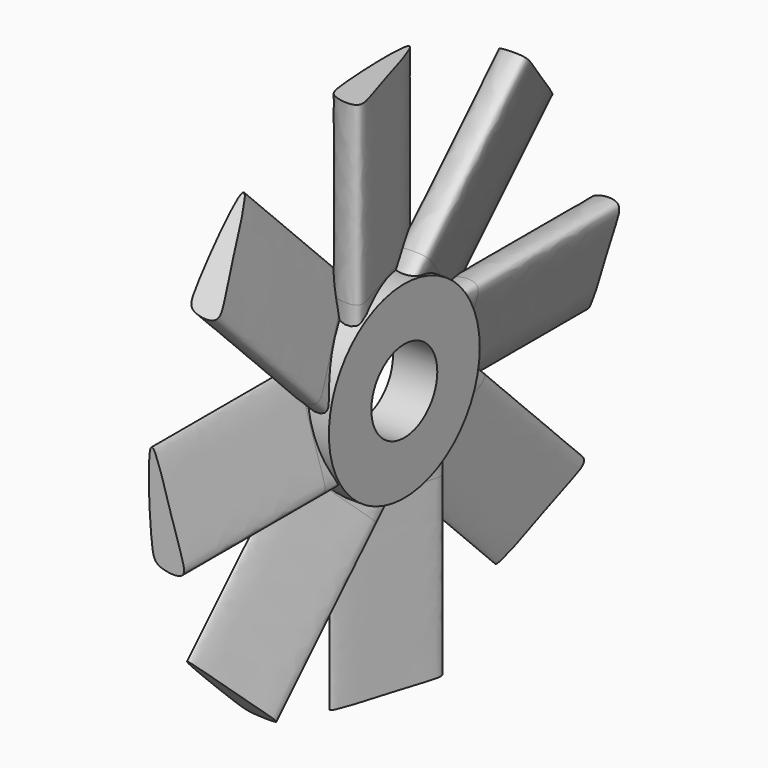
from build123d import *

# Parameters (mm, degrees)
F0_R      = 42.5449501658
F1_DEPTH  = 20
F4_DEPTH  = 79.502
F5_DEPTH  = 13.462
F7_COUNT  = 8
F8_R      = 25.0012100529
F9_DEPTH  = 19.812
F10_R     = 18.5977453916
F11_DEPTH = 76.2


with BuildPart() as f1:
    # F0 (on Right) → F1 (new body)
    with BuildSketch(Plane.YZ):
        Circle(F0_R)
    extrude(amount=F1_DEPTH)

    # F8 (on face) → F9 (join)
    with BuildSketch(Plane(origin=(0, 0, 0), x_dir=(0, -1, 0), z_dir=(-1, 0, 0))):
        Circle(F8_R)
    extrude(amount=-F9_DEPTH)

    # F10 (on face) → F11 (cut)
    with BuildSketch(Plane.YZ.offset(20)):
        Circle(F10_R)
    extrude(amount=-F11_DEPTH, mode=Mode.SUBTRACT)


with BuildPart() as f4:
    # F3 (on offset) → F4 (new body)
    with BuildSketch(Plane.XZ.offset(43.18)):
        with BuildLine():
            add(Edge.make_bspline(
                [(4.1226367466, 22.3667770624), (6.2363300605, 23.5312039513), (14.8033160811, -10.8311319862), (21.872628336, -26.2600950479), (6.039185649, -24.6004949411), (3.632337952, -17.1526476799), (1.8922356128, 21.1380562086), (4.1226367466, 22.3667770624)],
                knots=[0, 0, 0, 0, 0.2651017538, 0.4400974866, 0.5811439508, 0.7202606223, 1, 1, 1, 1], degree=3))
        make_face()
    extrude(amount=F4_DEPTH)


with BuildPart() as f5:
    # F5 (new): a face of the model
    f5_faces = [f4.part.faces().sort_by_distance(p)[0] for p in [
        (9.0997977205, -43.18, -6.1059848245),
    ]]
    extrude(f5_faces, amount=F5_DEPTH)


with BuildPart() as f7_1:
    # F7: instance of F5
    add(f5.part.rotate(Axis((-1.562891528, 0, 0), (1, 0, 0)), 1 * 360 / F7_COUNT))


with BuildPart() as f7_2:
    # F7: instance of F5
    add(f5.part.rotate(Axis((-1.562891528, 0, 0), (1, 0, 0)), 2 * 360 / F7_COUNT))


with BuildPart() as f7_3:
    # F7: instance of F5
    add(f5.part.rotate(Axis((-1.562891528, 0, 0), (1, 0, 0)), 3 * 360 / F7_COUNT))


with BuildPart() as f7_4:
    # F7: instance of F5
    add(f5.part.rotate(Axis((-1.562891528, 0, 0), (1, 0, 0)), 4 * 360 / F7_COUNT))


with BuildPart() as f7_5:
    # F7: instance of F5
    add(f5.part.rotate(Axis((-1.562891528, 0, 0), (1, 0, 0)), 5 * 360 / F7_COUNT))


with BuildPart() as f7_6:
    # F7: instance of F5
    add(f5.part.rotate(Axis((-1.562891528, 0, 0), (1, 0, 0)), 6 * 360 / F7_COUNT))


with BuildPart() as f7_7:
    # F7: instance of F5
    add(f5.part.rotate(Axis((-1.562891528, 0, 0), (1, 0, 0)), 7 * 360 / F7_COUNT))


with BuildPart() as f7_8:
    # F7: instance of F4
    add(f4.part.rotate(Axis((-1.562891528, 0, 0), (1, 0, 0)), 1 * 360 / F7_COUNT))


with BuildPart() as f7_9:
    # F7: instance of F4
    add(f4.part.rotate(Axis((-1.562891528, 0, 0), (1, 0, 0)), 2 * 360 / F7_COUNT))


with BuildPart() as f7_10:
    # F7: instance of F4
    add(f4.part.rotate(Axis((-1.562891528, 0, 0), (1, 0, 0)), 3 * 360 / F7_COUNT))


with BuildPart() as f7_11:
    # F7: instance of F4
    add(f4.part.rotate(Axis((-1.562891528, 0, 0), (1, 0, 0)), 4 * 360 / F7_COUNT))


with BuildPart() as f7_12:
    # F7: instance of F4
    add(f4.part.rotate(Axis((-1.562891528, 0, 0), (1, 0, 0)), 5 * 360 / F7_COUNT))


with BuildPart() as f7_13:
    # F7: instance of F4
    add(f4.part.rotate(Axis((-1.562891528, 0, 0), (1, 0, 0)), 6 * 360 / F7_COUNT))


with BuildPart() as f7_14:
    # F7: instance of F4
    add(f4.part.rotate(Axis((-1.562891528, 0, 0), (1, 0, 0)), 7 * 360 / F7_COUNT))


solid = Compound([f1.part, f4.part, f5.part, f7_1.part, f7_2.part, f7_3.part, f7_4.part, f7_5.part, f7_6.part, f7_7.part, f7_8.part, f7_9.part, f7_10.part, f7_11.part, f7_12.part, f7_13.part, f7_14.part])
